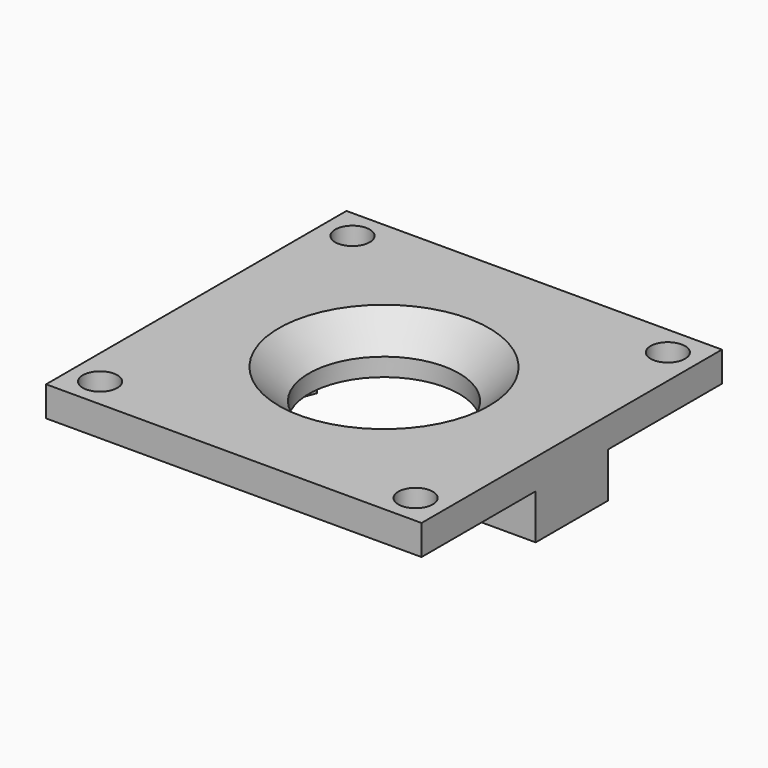
from build123d import *

# Parameters (mm, degrees)
F0_R     = 5
F1_DEPTH = 3.2
F0_R_2   = 1.15
F2_DEPTH = 2
F3_DEPTH = 5
F4_SIZE  = 2
F5_ANGLE = 180


with BuildPart() as f1:
    # F0 (on Top) → F1 (new body)
    with BuildSketch(Plane.XY):
        with BuildLine():
            ThreePointArc((6.873864, -3), (7.341797, -1.532322), (7.5, 0))
            ThreePointArc((7.5, 0), (7.341797, 1.532322), (6.873864, 3))
            ThreePointArc((6.873864, 3), (0, 7.5), (-6.873864, 3))
            ThreePointArc((-6.873864, 3), (-7.5, 0), (-6.873864, -3))
            ThreePointArc((-6.873864, -3), (0, -7.5), (6.873864, -3))
        make_face()
        Circle(F0_R, mode=Mode.SUBTRACT)
    extrude(amount=F1_DEPTH)

    # F0 (on Top) → F2 (join)
    with BuildSketch(Plane.XY):
        with BuildLine():
            ThreePointArc((-6.873864, 3), (0, 7.5), (6.873864, 3))
            Line((6.873864, 3), (12.5, 3))
            Line((12.5, 3), (12.5, 12.5))
            Line((12.5, 12.5), (-12.5, 12.5))
            Line((-12.5, 12.5), (-12.5, 3))
            Line((-12.5, 3), (-6.873864, 3))
        make_face()
        with Locations((-10.5, 10.5)):
            Circle(F0_R_2, mode=Mode.SUBTRACT)
        with Locations((10.5, 10.5)):
            Circle(F0_R_2, mode=Mode.SUBTRACT)
        with BuildLine():
            Line((12.5, -3), (6.873864, -3))
            ThreePointArc((6.873864, -3), (0, -7.5), (-6.873864, -3))
            Line((-6.873864, -3), (-12.5, -3))
            Line((-12.5, -3), (-12.5, -12.5))
            Line((-12.5, -12.5), (12.5, -12.5))
            Line((12.5, -12.5), (12.5, -3))
        make_face()
        with Locations((-10.5, -10.5)):
            Circle(F0_R_2, mode=Mode.SUBTRACT)
        with Locations((10.5, -10.5)):
            Circle(F0_R_2, mode=Mode.SUBTRACT)
    extrude(amount=F2_DEPTH)

    # F0 (on Top) → F3 (join)
    with BuildSketch(Plane.XY):
        with BuildLine():
            ThreePointArc((-6.873864, -3), (-7.5, 0), (-6.873864, 3))
            Line((-6.873864, 3), (-12.5, 3))
            Line((-12.5, 3), (-12.5, -3))
            Line((-12.5, -3), (-6.873864, -3))
        make_face()
        with BuildLine():
            ThreePointArc((6.873864, 3), (7.341797, 1.532322), (7.5, 0))
            ThreePointArc((7.5, 0), (7.341797, -1.532322), (6.873864, -3))
            Line((6.873864, -3), (12.5, -3))
            Line((12.5, -3), (12.5, 3))
            Line((12.5, 3), (6.873864, 3))
        make_face()
    extrude(amount=F3_DEPTH)

    # F4
    f4_edges = [f1.edges().sort_by_distance(p)[0] for p in [
        (-5, 0, 0),
    ]]
    chamfer(f4_edges, length=F4_SIZE)


with BuildPart() as f1_1:
    # F5: moved
    add(f1.part.rotate(Axis((9.686932, -3, 5), (1, 0, 0)), F5_ANGLE))


solid = f1_1.part
